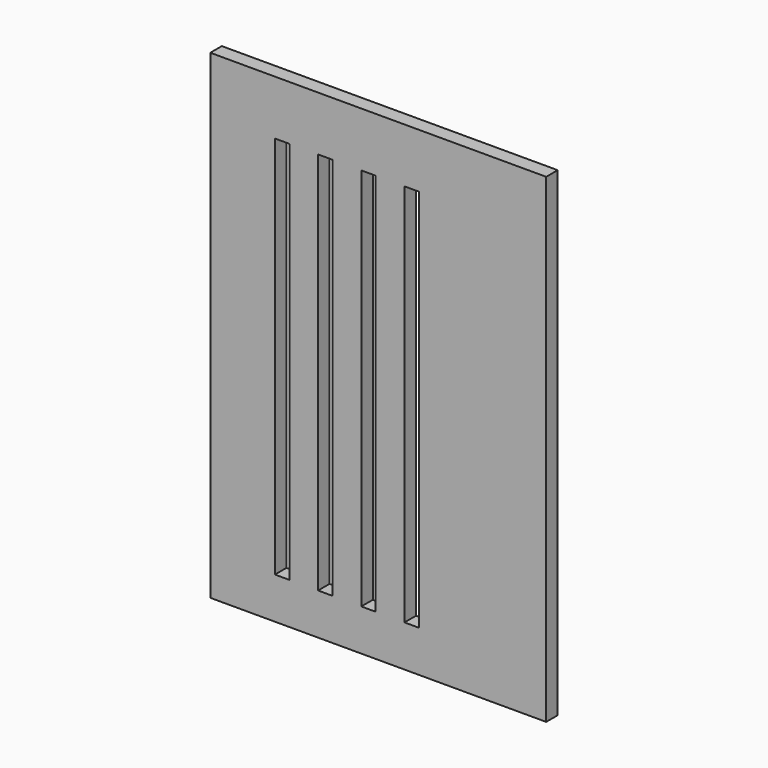
from build123d import *

# Parameters (mm, degrees)
F0_W     = 1778
F0_H     = 2540
F1_DEPTH = 76.2
F2_W     = 76.2
F2_H     = 2032
F3_DEPTH = 76.201


with BuildPart() as f1:
    # F0 (on Front) → F1 (new body)
    with BuildSketch(Plane.XZ):
        with Locations((-0.137005, 411.587372)):
            Rectangle(F0_W, F0_H)
    extrude(amount=F1_DEPTH)

    # F2 (on face) → F3 (cut, through all)
    with BuildSketch(Plane.XZ.offset(76.2)):
        with Locations((-508.975331, 377.320853)):
            Rectangle(F2_W, F2_H)
        with Locations((-280.375331, 377.320853)):
            Rectangle(F2_W, F2_H)
        with Locations((-51.775331, 377.320853)):
            Rectangle(F2_W, F2_H)
        with Locations((176.824669, 377.320853)):
            Rectangle(F2_W, F2_H)
    extrude(amount=-F3_DEPTH, mode=Mode.SUBTRACT)


solid = f1.part
